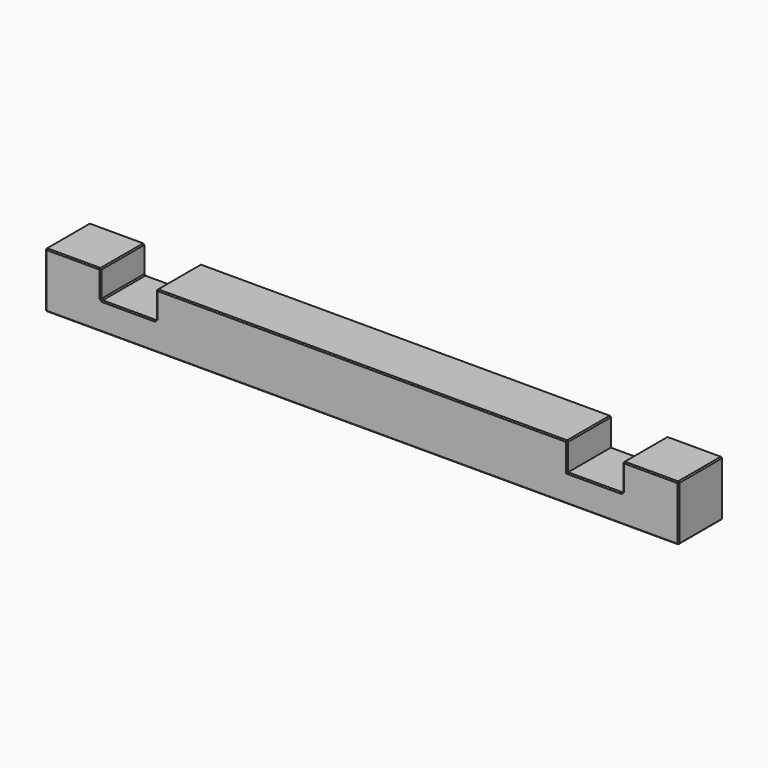
from build123d import *

# Parameters (mm, degrees)
F1_DEPTH = 10
F2_SIZE  = 0.2


with BuildPart() as f1:
    # F0 (on Front) → F1 (new body)
    with BuildSketch(Plane.XZ):
        Polygon((-45.385001, 10), (-55.385001, 10), (-55.385001, 0), (58.614999, 0), (58.614999, 10), (48.614999, 10), (48.614999, 5), (38.614999, 5), (38.614999, 10), (-35.385001, 10), (-35.385001, 5), (-45.385001, 5), align=None)
    extrude(amount=F1_DEPTH)

    # F2
    f2_edges = [f1.edges().sort_by_distance(p)[0] for p in [
        (-40.385001, -10, 5),
        (-45.385001, -10, 7.5),
        (-50.385001, -10, 10),
        (-55.385001, -10, 5),
        (1.614999, -10, 0),
        (58.614999, -10, 5),
        (53.614999, -10, 10),
        (48.614999, -10, 7.5),
        (43.614999, -10, 5),
        (38.614999, -10, 7.5),
        (1.614999, -10, 10),
        (-35.385001, -10, 7.5),
        (38.614999, -5, 10),
        (-35.385001, -5, 10),
        (1.614999, 0, 10),
        (-35.385001, -5, 5),
        (-45.385001, -5, 5),
        (-40.385001, 0, 5),
        (-45.385001, -5, 10),
        (-55.385001, -5, 10),
        (-50.385001, 0, 10),
        (-45.385001, 0, 7.5),
        (-55.385001, 0, 5),
        (1.614999, 0, 0),
        (58.614999, 0, 5),
        (53.614999, 0, 10),
        (48.614999, 0, 7.5),
        (43.614999, 0, 5),
        (38.614999, 0, 7.5),
        (-35.385001, 0, 7.5),
        (58.614999, -5, 0),
        (58.614999, -5, 10),
        (48.614999, -5, 10),
        (48.614999, -5, 5),
        (-55.385001, -5, 0),
    ]]
    chamfer(f2_edges, length=F2_SIZE)


solid = f1.part
